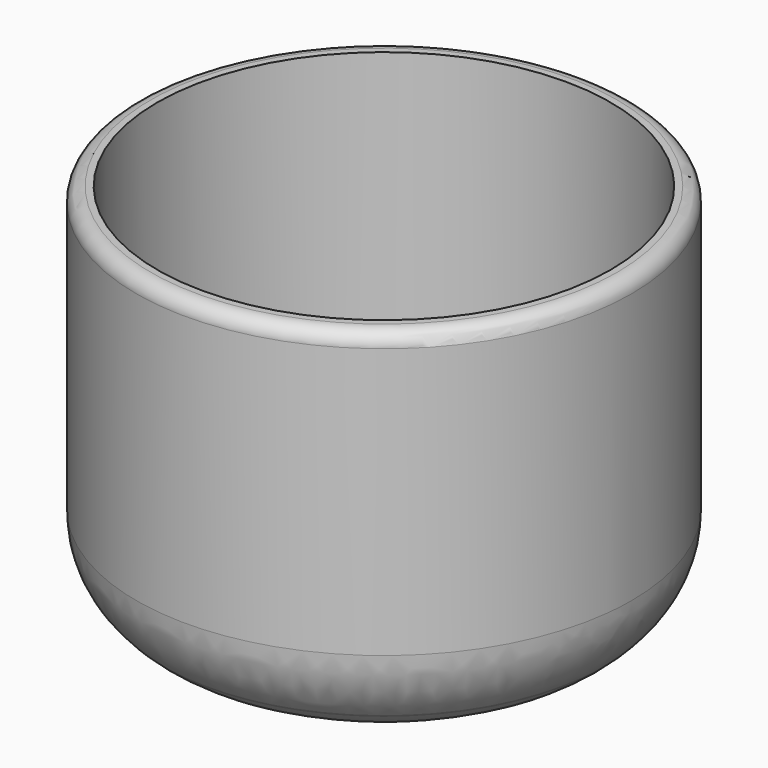
from build123d import *

# Parameters (mm, degrees)
F0_R     = 13
F1_DEPTH = 20
F2_R     = 11.9
F3_DEPTH = 17
F4_R     = 1.75
F5_DEPTH = 4.1
F6_SIZE  = 3
F7_R     = 5
F8_R     = 0.75


with BuildPart() as f1:
    # F0 (on Top) → F1 (new body)
    with BuildSketch(Plane.XY):
        Circle(F0_R)
    extrude(amount=F1_DEPTH)

    # F2 (on face) → F3 (cut)
    with BuildSketch(Plane.XY.offset(20)):
        Circle(F2_R)
    extrude(amount=-F3_DEPTH, mode=Mode.SUBTRACT)

    # F4 (on Top) → F5 (cut)
    with BuildSketch(Plane.XY):
        Circle(F4_R)
    extrude(amount=F5_DEPTH, mode=Mode.SUBTRACT)

    # F6
    f6_edges = [f1.edges().sort_by_distance(p)[0] for p in [
        (-13, 0, 0),
    ]]
    chamfer(f6_edges, length=F6_SIZE)

    # F7
    f7_edges = [f1.edges().sort_by_distance(p)[0] for p in [
        (-10, 0, 0),
        (-13, 0, 3),
    ]]
    fillet(f7_edges, radius=F7_R)

    # F8
    f8_edges = [f1.edges().sort_by_distance(p)[0] for p in [
        (-13, 0, 20),
    ]]
    fillet(f8_edges, radius=F8_R)


solid = f1.part
